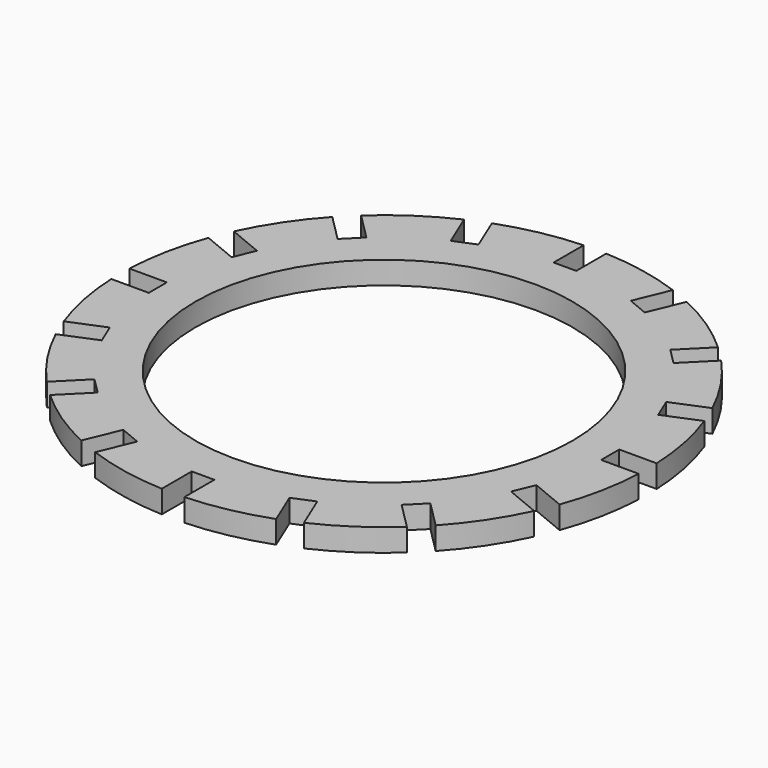
from build123d import *

# Parameters (mm, degrees)
F0_R     = 25
F1_DEPTH = 3


with BuildPart() as f1:
    # F0 (on Top) → F1 (new body)
    with BuildSketch(Plane.XY):
        with BuildLine():
            Line((30, 1.5), (34.967842, 1.5))
            ThreePointArc((34.967842, 1.5), (34.327485, 6.828161), (32.880099, 11.995795))
            Line((32.880099, 11.995795), (28.290411, 10.094684))
            Line((28.290411, 10.094684), (27.142361, 12.866322))
            Line((27.142361, 12.866322), (31.732049, 14.767433))
            ThreePointArc((31.732049, 14.767433), (29.101436, 19.444958), (25.786659, 23.665338))
            Line((25.786659, 23.665338), (22.273864, 20.152543))
            Line((22.273864, 20.152543), (20.152543, 22.273864))
            Line((20.152543, 22.273864), (23.665338, 25.786659))
            ThreePointArc((23.665338, 25.786659), (19.444958, 29.101436), (14.767433, 31.732049))
            Line((14.767433, 31.732049), (12.866322, 27.142361))
            Line((12.866322, 27.142361), (10.094684, 28.290411))
            Line((10.094684, 28.290411), (11.995795, 32.880099))
            ThreePointArc((11.995795, 32.880099), (6.828161, 34.327485), (1.5, 34.967842))
            Line((1.5, 34.967842), (1.5, 30))
            Line((1.5, 30), (-1.5, 30))
            Line((-1.5, 30), (-1.5, 34.967842))
            ThreePointArc((-1.5, 34.967842), (-6.828161, 34.327485), (-11.995795, 32.880099))
            Line((-11.995795, 32.880099), (-10.094684, 28.290411))
            Line((-10.094684, 28.290411), (-12.866322, 27.142361))
            Line((-12.866322, 27.142361), (-14.767433, 31.732049))
            ThreePointArc((-14.767433, 31.732049), (-19.444958, 29.101436), (-23.665338, 25.786659))
            Line((-23.665338, 25.786659), (-20.152543, 22.273864))
            Line((-20.152543, 22.273864), (-22.273864, 20.152543))
            Line((-22.273864, 20.152543), (-25.786659, 23.665338))
            ThreePointArc((-25.786659, 23.665338), (-29.101436, 19.444958), (-31.732049, 14.767433))
            Line((-31.732049, 14.767433), (-27.142361, 12.866322))
            Line((-27.142361, 12.866322), (-28.290411, 10.094684))
            Line((-28.290411, 10.094684), (-32.880099, 11.995795))
            ThreePointArc((-32.880099, 11.995795), (-34.327485, 6.828161), (-34.967842, 1.5))
            Line((-34.967842, 1.5), (-30, 1.5))
            Line((-30, 1.5), (-30, -1.5))
            Line((-30, -1.5), (-34.967842, -1.5))
            ThreePointArc((-34.967842, -1.5), (-34.327485, -6.828161), (-32.880099, -11.995795))
            Line((-32.880099, -11.995795), (-28.290411, -10.094684))
            Line((-28.290411, -10.094684), (-27.142361, -12.866322))
            Line((-27.142361, -12.866322), (-31.732049, -14.767433))
            ThreePointArc((-31.732049, -14.767433), (-29.101436, -19.444958), (-25.786659, -23.665338))
            Line((-25.786659, -23.665338), (-22.273864, -20.152543))
            Line((-22.273864, -20.152543), (-20.152543, -22.273864))
            Line((-20.152543, -22.273864), (-23.665338, -25.786659))
            ThreePointArc((-23.665338, -25.786659), (-19.444958, -29.101436), (-14.767433, -31.732049))
            Line((-14.767433, -31.732049), (-12.866322, -27.142361))
            Line((-12.866322, -27.142361), (-10.094684, -28.290411))
            Line((-10.094684, -28.290411), (-11.995795, -32.880099))
            ThreePointArc((-11.995795, -32.880099), (-6.828161, -34.327485), (-1.5, -34.967842))
            Line((-1.5, -34.967842), (-1.5, -30))
            Line((-1.5, -30), (0, -30))
            Line((0, -30), (1.5, -30))
            Line((1.5, -30), (1.5, -34.967842))
            ThreePointArc((1.5, -34.967842), (6.828161, -34.327485), (11.995795, -32.880099))
            Line((11.995795, -32.880099), (10.094684, -28.290411))
            Line((10.094684, -28.290411), (12.866322, -27.142361))
            Line((12.866322, -27.142361), (14.767433, -31.732049))
            ThreePointArc((14.767433, -31.732049), (19.444958, -29.101436), (23.665338, -25.786659))
            Line((23.665338, -25.786659), (20.152543, -22.273864))
            Line((20.152543, -22.273864), (22.273864, -20.152543))
            Line((22.273864, -20.152543), (25.786659, -23.665338))
            ThreePointArc((25.786659, -23.665338), (29.101436, -19.444958), (31.732049, -14.767433))
            Line((31.732049, -14.767433), (27.142361, -12.866322))
            Line((27.142361, -12.866322), (28.290411, -10.094684))
            Line((28.290411, -10.094684), (32.880099, -11.995795))
            ThreePointArc((32.880099, -11.995795), (34.327485, -6.828161), (34.967842, -1.5))
            Line((34.967842, -1.5), (30, -1.5))
            Line((30, -1.5), (30, 1.5))
        make_face()
        Circle(F0_R, mode=Mode.SUBTRACT)
    extrude(amount=F1_DEPTH)


solid = f1.part
